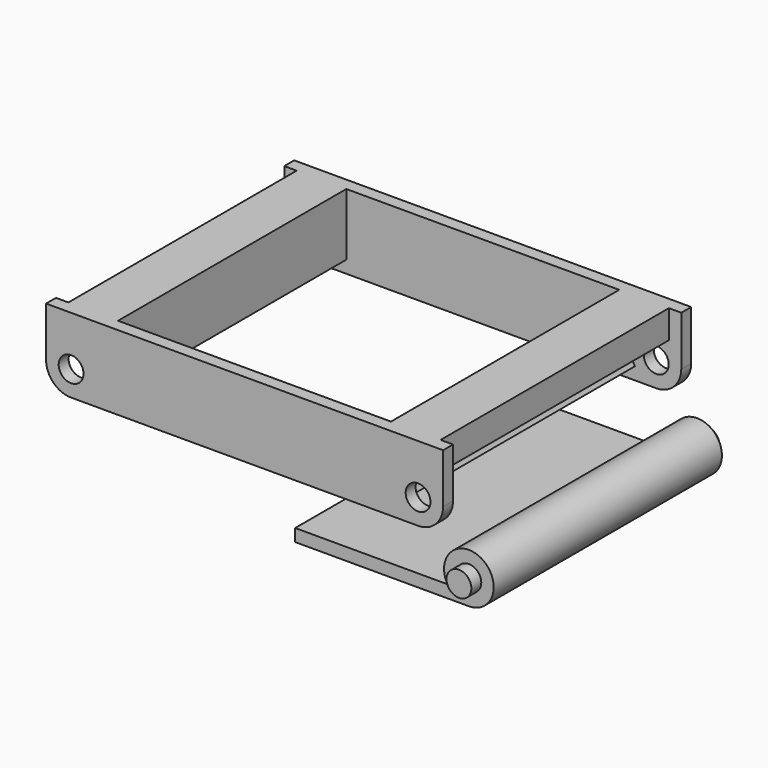
from build123d import *

# Parameters (mm, degrees)
F1_R           = 6.35
F2_DEPTH       = 6.35
F3_DEPTH       = 152.4
F4_DEPTH       = 152.4
F6_R           = 6.35
F7_DEPTH       = 6.35
F8_R           = 6.35
F9_DEPTH       = 146.05
F10_DEPTH      = 152.4
F10_DEPTH_BACK = 6.35


with BuildPart() as f2:
    # F1 (on offset) → F2 (new body)
    with BuildSketch(Plane.XZ.offset(-76.2)):
        with BuildLine():
            Line((-89.460294, 19.359184), (-95.810294, 19.359184))
            Line((-95.810294, 19.359184), (-95.810294, -6.040816))
            ThreePointArc((-95.810294, -6.040816), (-92.061619, -15.090917), (-83.011518, -18.839591))
            Line((-83.011518, -18.839591), (94.59093, -18.839591))
            ThreePointArc((94.59093, -18.839591), (103.641031, -15.090917), (107.389706, -6.040816))
            Line((107.389706, -6.040816), (107.389706, 19.359184))
            Line((107.389706, 19.359184), (101.039706, 19.359184))
            Line((101.039706, 19.359184), (101.039706, 4.900084))
            ThreePointArc((101.039706, 4.900084), (85.610674, 2.939441), (83.65003, -12.489591))
            Line((83.65003, -12.489591), (75.639706, -12.489591))
            Line((75.639706, -12.489591), (75.639706, 19.359184))
            Line((75.639706, 19.359184), (-64.060294, 19.359184))
            Line((-64.060294, 19.359184), (-64.060294, -12.489591))
            Line((-64.060294, -12.489591), (-72.070618, -12.489591))
            ThreePointArc((-72.070618, -12.489591), (-74.031262, 2.939441), (-89.460294, 4.900084))
            Line((-89.460294, 4.900084), (-89.460294, 19.359184))
        make_face()
        with Locations((-83.011518, -6.040816)):
            Circle(F1_R, mode=Mode.SUBTRACT)
        with Locations((94.59093, -6.040816)):
            Circle(F1_R, mode=Mode.SUBTRACT)
    extrude(amount=F2_DEPTH)

    # F1 (on offset) → F3 (join)
    with BuildSketch(Plane.XZ.offset(-76.2)):
        with BuildLine():
            Line((-64.060294, 19.359184), (-89.460294, 19.359184))
            Line((-89.460294, 19.359184), (-89.460294, 4.900084))
            ThreePointArc((-89.460294, 4.900084), (-74.031262, 2.939441), (-72.070618, -12.489591))
            Line((-72.070618, -12.489591), (-64.060294, -12.489591))
            Line((-64.060294, -12.489591), (-64.060294, 19.359184))
        make_face()
    extrude(amount=F3_DEPTH)

    # F1 (on offset) → F4 (join)
    with BuildSketch(Plane.XZ.offset(-76.2)):
        with BuildLine():
            Line((101.039706, 19.359184), (75.639706, 19.359184))
            Line((75.639706, 19.359184), (75.639706, -12.489591))
            Line((75.639706, -12.489591), (83.65003, -12.489591))
            ThreePointArc((83.65003, -12.489591), (85.610674, 2.939441), (101.039706, 4.900084))
            Line((101.039706, 4.900084), (101.039706, 19.359184))
        make_face()
    extrude(amount=F4_DEPTH)

    # F6 (on offset) → F7 (join)
    with BuildSketch(Plane.XZ.offset(76.2)):
        with BuildLine():
            Line((-89.460294, 19.359184), (-95.810294, 19.359184))
            Line((-95.810294, 19.359184), (-95.810294, -6.040816))
            ThreePointArc((-95.810294, -6.040816), (-92.061619, -15.090917), (-83.011518, -18.839591))
            Line((-83.011518, -18.839591), (94.59093, -18.839591))
            ThreePointArc((94.59093, -18.839591), (103.641031, -15.090917), (107.389706, -6.040816))
            Line((107.389706, -6.040816), (107.389706, 19.359184))
            Line((107.389706, 19.359184), (-89.460294, 19.359184))
        make_face()
        with Locations((-83.011518, -6.040816)):
            Circle(F6_R, mode=Mode.SUBTRACT)
        with Locations((94.59093, -6.040816)):
            Circle(F6_R, mode=Mode.SUBTRACT)
    extrude(amount=F7_DEPTH)


with BuildPart() as f9:
    # F8 (on offset) → F9 (new body)
    with BuildSketch(Plane.XZ.offset(-76.2)):
        with BuildLine():
            Line((21.530006, -55.120495), (110.430006, -55.120495))
            ThreePointArc((110.430006, -55.120495), (116.780006, -31.421973), (99.431483, -48.770495))
            Line((99.431483, -48.770495), (21.530006, -48.770495))
            Line((21.530006, -48.770495), (21.530006, -55.120495))
        make_face()
        with Locations((110.430006, -42.420495)):
            Circle(F8_R, mode=Mode.SUBTRACT)
    extrude(amount=F9_DEPTH)

    # F8 (on offset) → F10 (join, two sides)
    with BuildSketch(Plane.XZ.offset(-76.2)) as f10_sk:
        with Locations((110.430006, -42.420495)):
            Circle(F8_R)
    extrude(amount=F10_DEPTH)
    extrude(f10_sk.sketch, amount=-F10_DEPTH_BACK)


solid = Compound([f2.part, f9.part])
